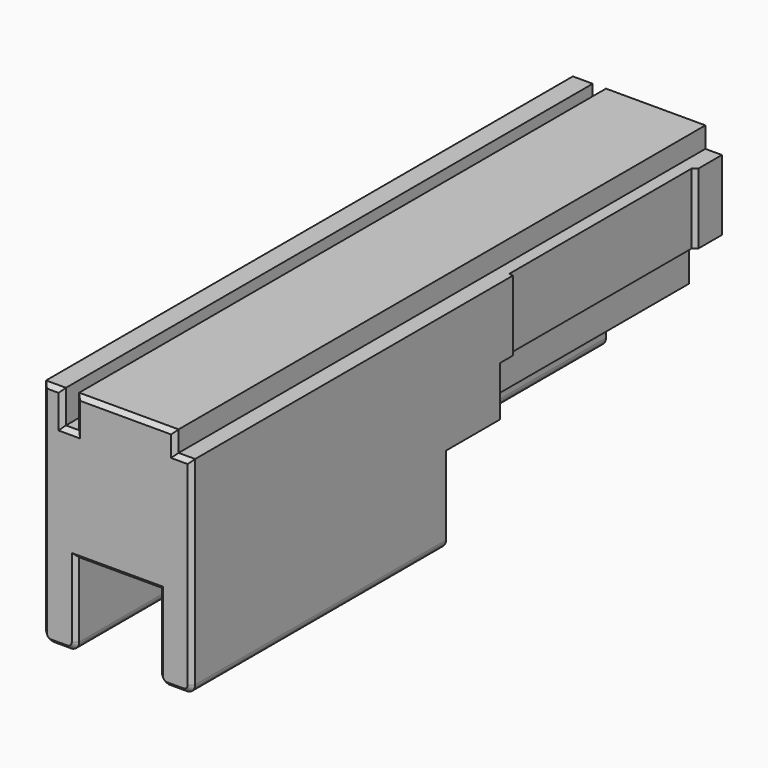
from build123d import *

# Parameters (mm, degrees)
PAD119_DEPTH            = 80
SKETCH530_R             = 2.75
POCKET373_DEPTH         = 8.001
SKETCH531_R             = 5
POCKET374_DEPTH         = 4.001
SKETCH538_W             = 3.2
SKETCH538_H             = 8
POCKET380_DEPTH         = 80.001
POCKET380_DEPTH_BACK    = 80.001
POCKET388_DEPTH         = 8.001
POCKET389_DEPTH         = 0.001
POCKET389_DEPTH_BACK    = 55.001
CHAMFER033_SIZE         = 1
BODY191_PLACEMENT_ANGLE = 90


with BuildPart() as part:
    # Sketch529 → Pad119 (new body, symmetric)
    with BuildSketch(Plane.YZ):
        with BuildLine():
            Line((-8, 2), (-8, 55))
            Line((-8, 55), (24, 55))
            Line((24, 55), (24, 50))
            Line((24, 50), (28, 50))
            Line((28, 50), (28, 2))
            ThreePointArc((26, 0), (27.414214, 0.585786), (28, 2))
            Line((26, 0), (22, 0))
            ThreePointArc((20, 2), (20.585786, 0.585786), (22, 0))
            Line((20, 2), (20, 20))
            Line((20, 20), (0, 20))
            Line((0, 20), (0, 2))
            ThreePointArc((-2, 0), (-0.585786, 0.585786), (0, 2))
            Line((-2, 0), (-6, 0))
            ThreePointArc((-8, 2), (-7.414214, 0.585786), (-6, 0))
        make_face()
    extrude(amount=PAD119_DEPTH, both=True)

    # Sketch530 → Pocket373 (cut, through all)
    with BuildSketch(Plane.XZ):
        with Locations((-50, 10)):
            Circle(SKETCH530_R)
        with Locations((50, 10)):
            Circle(SKETCH530_R)
    extrude(amount=POCKET373_DEPTH, mode=Mode.SUBTRACT)

    # Sketch531 → Pocket374 (cut, through all)
    with BuildSketch(Plane.XZ.offset(4)):
        with Locations((50, 10)):
            Circle(SKETCH531_R)
        with Locations((-50, 10)):
            Circle(SKETCH531_R)
    extrude(amount=POCKET374_DEPTH, mode=Mode.SUBTRACT)

    # Sketch538 → Pocket380 (cut, two sides)
    with BuildSketch(Plane.YZ) as pocket380_sk:
        with Locations((-1.6, 51)):
            Rectangle(SKETCH538_W, SKETCH538_H)
    extrude(amount=-POCKET380_DEPTH, mode=Mode.SUBTRACT)
    extrude(pocket380_sk.sketch, amount=POCKET380_DEPTH_BACK, mode=Mode.SUBTRACT)

    # Sketch548 → Pocket388 (cut, through all)
    with BuildSketch(Plane.XZ.offset(-20)):
        Polygon((3.27, 0), (3.27, 21), (-13, 21), (-13, 33), (-80, 33), (-80, 0), align=None)
    extrude(amount=-POCKET388_DEPTH, mode=Mode.SUBTRACT)

    # Sketch549 → Pocket389 (cut, two sides)
    with BuildSketch(Plane.XY) as pocket389_sk:
        Polygon((-17, 28), (-17, 27), (-72, 27), (-73, 28), align=None)
    extrude(amount=-POCKET389_DEPTH, mode=Mode.SUBTRACT)
    extrude(pocket389_sk.sketch, amount=POCKET389_DEPTH_BACK, mode=Mode.SUBTRACT)

    # Chamfer033
    chamfer033_edges = [part.edges().sort_by_distance(p)[0] for p in [
        (80, -4, 0),
        (80, -7.414214, 0.585786),
        (80, -8, 28.5),
        (80, -5.6, 55),
        (80, -3.2, 51),
        (80, -1.6, 47),
        (80, 0, 51),
        (80, 12, 55),
        (80, 24, 52.5),
        (80, 26, 50),
        (80, 28, 26),
        (80, 27.414214, 0.585786),
        (80, 24, 0),
        (80, 20.585786, 0.585786),
        (80, 20, 11),
        (80, 10, 20),
        (80, 0, 11),
        (80, -0.585786, 0.585786),
    ]]
    chamfer(chamfer033_edges, length=CHAMFER033_SIZE)


with BuildPart() as part_1:
    # Body191 placement: moved
    add(part.part.moved(Location((-170, 0, -220))).rotate(Axis((-170, 0, -220), (0, 0, -1)), BODY191_PLACEMENT_ANGLE))


solid = part_1.part
